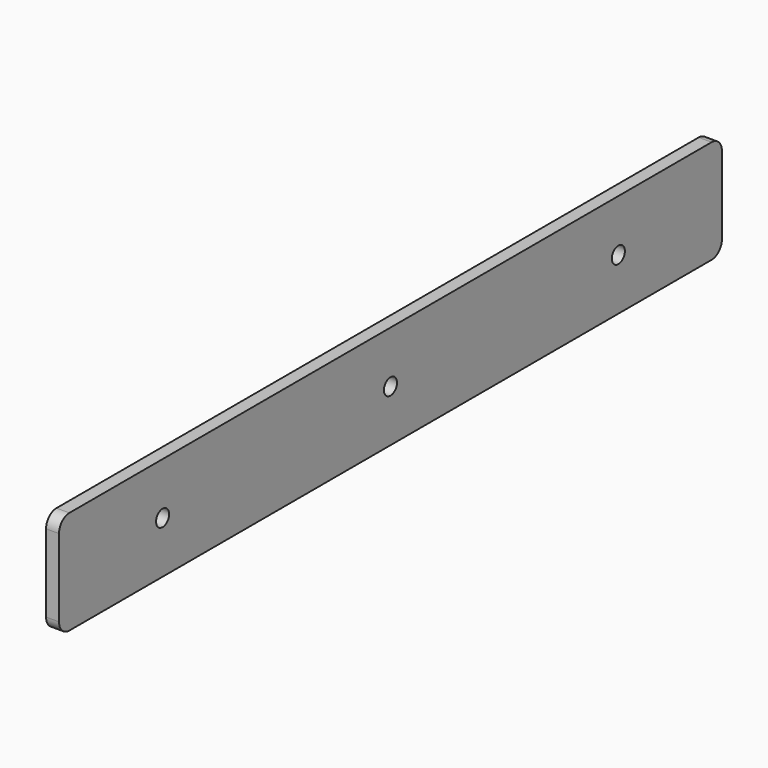
from build123d import *

# Parameters (mm, degrees)
F0_R     = 4
F1_DEPTH = 6.35


with BuildPart() as f1:
    # F0 (on Right) → F1 (new body)
    with BuildSketch(Plane.YZ):
        with BuildLine():
            ThreePointArc((203.2, 19.05), (201.340128, 23.540128), (196.85, 25.4))
            Line((196.85, 25.4), (-196.85, 25.4))
            ThreePointArc((-196.85, 25.4), (-201.340128, 23.540128), (-203.2, 19.05))
            Line((-203.2, 19.05), (-203.2, -19.05))
            ThreePointArc((-203.2, -19.05), (-201.340128, -23.540128), (-196.85, -25.4))
            Line((-196.85, -25.4), (196.85, -25.4))
            ThreePointArc((196.85, -25.4), (201.340128, -23.540128), (203.2, -19.05))
            Line((203.2, -19.05), (203.2, 19.05))
        make_face()
        with Locations((-139.7, 0)):
            Circle(F0_R, mode=Mode.SUBTRACT)
        Circle(F0_R, mode=Mode.SUBTRACT)
        with Locations((139.7, 0)):
            Circle(F0_R, mode=Mode.SUBTRACT)
    extrude(amount=F1_DEPTH)


solid = f1.part
